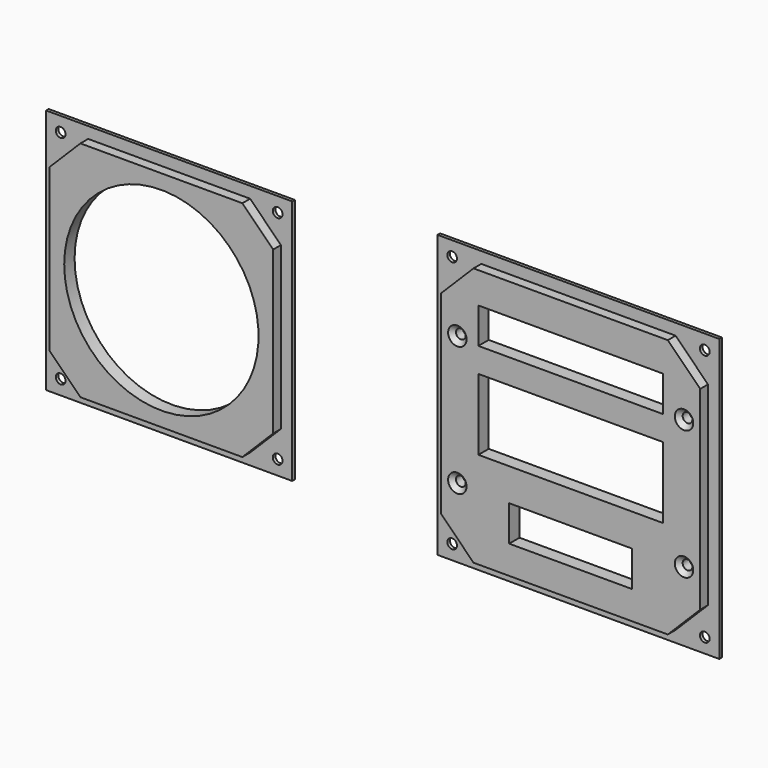
from build123d import *

# Parameters (mm, degrees)
F2_DEPTH        = 3
F3_W            = 76
F3_H            = 76
F4_DEPTH        = 1
F6_D            = 3
F7_D            = 60
F9_DEPTH        = 3
F10_W           = 87
F10_H           = 87
F11_DEPTH       = 1
F13_D           = 3
F14_D           = 3
F14_CSINK_D     = 5.7
F14_CSINK_ANGLE = 90
F15_W           = 57
F15_H           = 11
F15_H_2         = 22
F15_W_2         = 38
F16_DEPTH       = 5


with BuildPart() as f2:
    # F1 (on offset) → F2 (new body)
    with BuildSketch(Plane.XZ.offset(5)):
        Polygon((-61.25688, 238.304736), (-61.25688, 263.304736), (-70.75688, 272.804736), (-95.75688, 272.804736), (-120.75688, 272.804736), (-130.25688, 263.304736), (-130.25688, 238.304736), (-130.25688, 213.304736), (-120.75688, 203.804736), (-95.75688, 203.804736), (-70.75688, 203.804736), (-61.25688, 213.304736), align=None)
    extrude(amount=F2_DEPTH)

    # F3 (on face) → F4 (join)
    with BuildSketch(Plane(origin=(0, -5, 0), x_dir=(-1, 0, 0), z_dir=(0, 1, 0))):
        with Locations((95.75688, 238.304736)):
            Rectangle(F3_W, F3_H)
    extrude(amount=F4_DEPTH)

    # F6 (through all)
    with Locations(Plane.XZ.offset(8)):
        with Locations((-129.25688, 271.804736), (-62.25688, 271.804736), (-62.25688, 204.804736), (-129.25688, 204.804736)):
            Hole(F6_D / 2)

    # F7 (through all)
    with Locations(Plane.XZ.offset(8)):
        with Locations((-95.75688, 238.304736)):
            Hole(F7_D / 2)


with BuildPart() as f9:
    # F8 (on offset) → F9 (new body)
    with BuildSketch(Plane.XZ.offset(5)):
        Polygon((70.617062, 238.304736), (70.617062, 268.304736), (60.617062, 278.304736), (30.617062, 278.304736), (0.617062, 278.304736), (-9.382938, 268.304736), (-9.382938, 238.304736), (-9.382938, 208.304736), (0.617062, 198.304736), (30.617062, 198.304736), (60.617062, 198.304736), (70.617062, 208.304736), align=None)
    extrude(amount=F9_DEPTH)

    # F10 (on face) → F11 (join)
    with BuildSketch(Plane(origin=(0, -5, 0), x_dir=(-1, 0, 0), z_dir=(0, 1, 0))):
        with Locations((-30.617062, 238.304736)):
            Rectangle(F10_W, F10_H)
    extrude(amount=F11_DEPTH)

    # F13 (through all)
    with Locations(Plane.XZ.offset(8)):
        with Locations((-8.382938, 277.304736), (-8.382938, 199.304736), (69.617062, 199.304736), (69.617062, 277.304736)):
            Hole(F13_D / 2)

    # F14 (through all)
    with Locations(Plane.XZ.offset(8)):
        with Locations((-4.382938, 258.304736), (-4.382938, 218.304736), (65.617062, 218.304736), (65.617062, 258.304736)):
            CounterSinkHole(F14_D / 2, F14_CSINK_D / 2, counter_sink_angle=F14_CSINK_ANGLE)

    # F15 (on face) → F16 (cut)
    with BuildSketch(Plane.XZ.offset(8)):
        with Locations((30.617062, 263.218444)):
            Rectangle(F15_W, F15_H)
        with Locations((30.617062, 239.115536)):
            Rectangle(F15_W, F15_H_2)
        with Locations((30.617062, 212.557742)):
            Rectangle(F15_W_2, F15_H)
    extrude(amount=-F16_DEPTH, mode=Mode.SUBTRACT)


solid = Compound([f2.part, f9.part])
